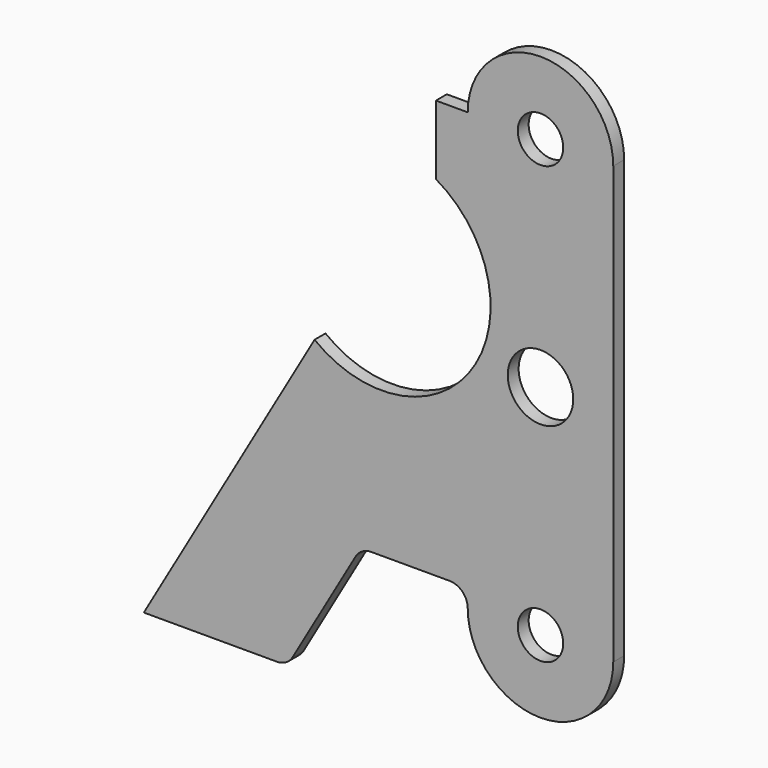
from build123d import *

# Parameters (mm, degrees)
F0_R     = 7.9375
F0_R_2   = 11.43
F1_DEPTH = 4.7625


with BuildPart() as f1:
    # F0 (on Front) → F1 (new body)
    with BuildSketch(Plane.XZ):
        with BuildLine():
            Line((30.120686, 57.15), (19.00762, 57.15))
            Line((19.00762, 57.15), (19.00762, 33.02))
            ThreePointArc((19.00762, 33.02), (31.640757, -21.224337), (-23.341394, -30.112943))
            Line((-23.341394, -30.112943), (-82.945339, -133.350004))
            Line((-82.945339, -133.350004), (-36.502154, -133.350004))
            ThreePointArc((-36.502154, -133.350004), (-33.327154, -132.499265), (-31.002893, -130.175004))
            Line((-31.002893, -130.175004), (-9.005846, -92.075))
            ThreePointArc((-9.005846, -92.075), (-6.681584, -89.750739), (-3.506584, -88.9))
            Line((-3.506584, -88.9), (23.770686, -88.9))
            ThreePointArc((23.770686, -88.9), (28.260814, -90.759872), (30.120686, -95.25))
            ThreePointArc((30.120686, -95.25), (55.520686, -120.65), (80.920686, -95.25))
            Line((80.920686, -95.25), (80.920686, 57.15))
            ThreePointArc((80.920686, 57.15), (55.520686, 82.55), (30.120686, 57.15))
        make_face()
        with Locations((55.520686, -95.25)):
            Circle(F0_R, mode=Mode.SUBTRACT)
        with Locations((55.520686, -19.05)):
            Circle(F0_R_2, mode=Mode.SUBTRACT)
        with Locations((55.520686, 57.15)):
            Circle(F0_R, mode=Mode.SUBTRACT)
    extrude(amount=F1_DEPTH)


solid = f1.part
